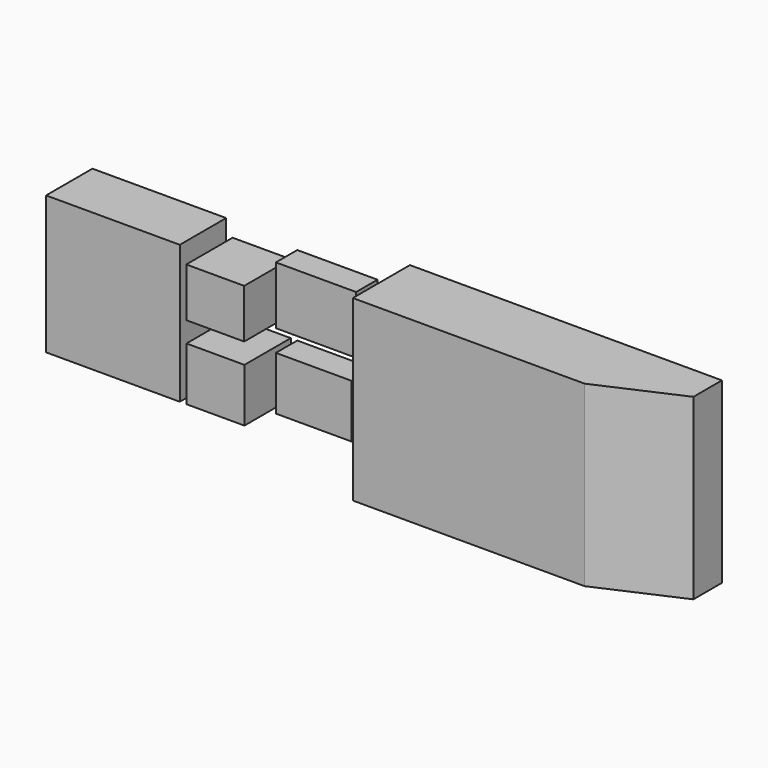
from build123d import *

# Parameters (mm, degrees)
F0_W     = 150
F0_H     = 155
F0_W_2   = 65
F0_H_2   = 60
F0_H_3   = 55
F1_DEPTH = 65
F0_W_3   = 260
F0_H_4   = 200
F2_DEPTH = 80
F0_W_4   = 90
F3_DEPTH = 40
F5_DEPTH = 200
F0_W_5   = 85
F0_H_5   = 65
F6_DEPTH = 30


with BuildPart() as f1:
    # F0 (on Front) → F1 (new body)
    with BuildSketch(Plane.XZ):
        with Locations((15.156873, -50.636422)):
            Rectangle(F0_W, F0_H)
        with Locations((130.12536, -98.136422)):
            Rectangle(F0_W_2, F0_H_2)
        with Locations((129.894735, -17.694888)):
            Rectangle(F0_W_2, F0_H_3)
    extrude(amount=F1_DEPTH)


with BuildPart() as f2:
    # F0 (on Front) → F2 (new body)
    with BuildSketch(Plane.XZ):
        with Locations((426.257008, -52.579842)):
            Rectangle(F0_W_3, F0_H_4)
    extrude(amount=F2_DEPTH)

    # F0 (on Front) → F3 (join)
    with BuildSketch(Plane.XZ):
        with Locations((601.257008, -52.579842)):
            Rectangle(F0_W_4, F0_H_4)
    extrude(amount=F3_DEPTH)

    # F4 (on face) → F5 (join)
    with BuildSketch(Plane(origin=(0, 0, -152.579842), x_dir=(1, 0, 0), z_dir=(0, 0, -1))):
        Polygon((646.257008, 40), (556.257008, 80), (556.257008, 40), align=None)
    extrude(amount=-F5_DEPTH)


with BuildPart() as f6:
    # F0 (on Front) → F6 (new body)
    with BuildSketch(Plane.XZ):
        with Locations((212.417495, -98.136422)):
            Rectangle(F0_W_5, F0_H_2)
        with Locations((214.917495, -11.29248)):
            Rectangle(F0_W_4, F0_H_5)
    extrude(amount=F6_DEPTH)


solid = Compound([f1.part, f2.part, f6.part])
